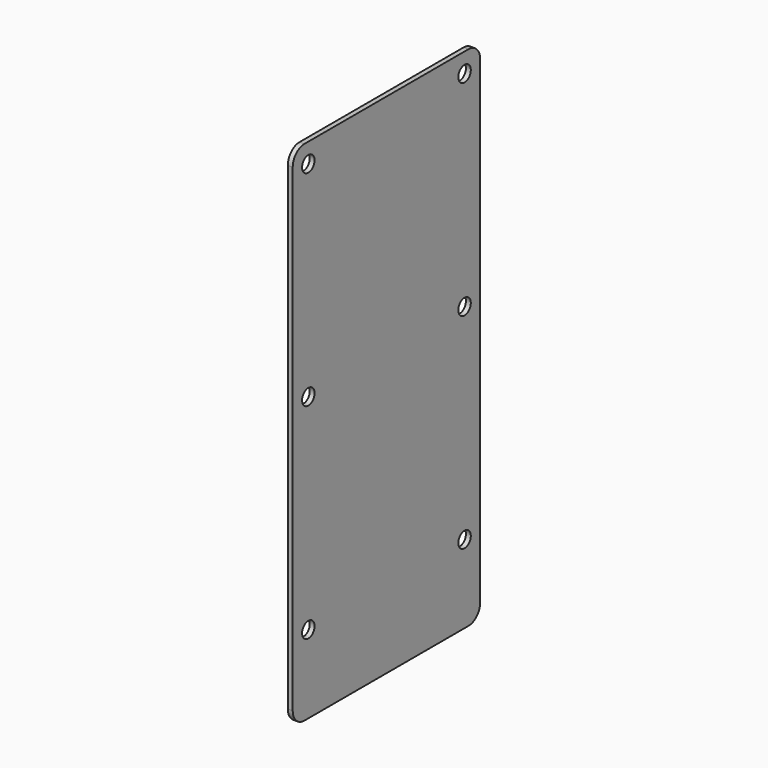
from build123d import *

# Parameters (mm, degrees)
F0_W     = 152.4
F0_H     = 330.2
F0_R     = 5.08
F1_DEPTH = 3.175
F2_R     = 9.525


with BuildPart() as f1:
    # F0 (on Right) → F1 (new body)
    with BuildSketch(Plane.YZ):
        with Locations((76.2, 165.1)):
            Rectangle(F0_W, F0_H)
        with Locations((12.7, 50.8)):
            Circle(F0_R, mode=Mode.SUBTRACT)
        with Locations((139.7, 50.8)):
            Circle(F0_R, mode=Mode.SUBTRACT)
        with Locations((12.7, 184.15)):
            Circle(F0_R, mode=Mode.SUBTRACT)
        with Locations((12.7, 317.5)):
            Circle(F0_R, mode=Mode.SUBTRACT)
        with Locations((139.7, 184.15)):
            Circle(F0_R, mode=Mode.SUBTRACT)
        with Locations((139.7, 317.5)):
            Circle(F0_R, mode=Mode.SUBTRACT)
    extrude(amount=F1_DEPTH)

    # F2
    f2_edges = [f1.edges().sort_by_distance(p)[0] for p in [
        (1.5875, 152.4, 330.2),
        (1.5875, 0, 330.2),
        (1.5875, 0, 0),
        (1.5875, 152.4, 0),
    ]]
    fillet(f2_edges, radius=F2_R)


solid = f1.part
